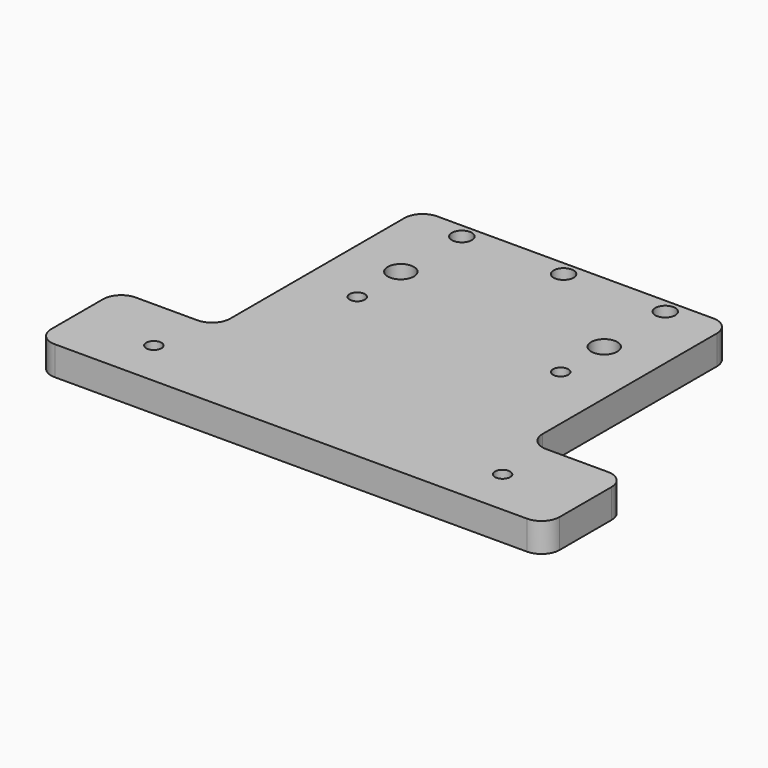
from build123d import *

# Parameters (mm, degrees)
PAD_DEPTH     = 8
SKETCH033_R   = 2.1
HOLE007_DEPTH = 25
SKETCH035_R   = 3.6
HOLE009_DEPTH = 25
SKETCH036_R   = 2.1
HOLE010_DEPTH = 25
SKETCH051_R   = 2.75
HOLE018_DEPTH = 25


with BuildPart() as part:
    # Sketch → Pad (new body)
    with BuildSketch(Plane.XY):
        with BuildLine():
            Line((-38, -31.56), (38, -31.56))
            ThreePointArc((43, -36.56), (41.535534, -33.024466), (38, -31.56))
            Line((43, -36.56), (43, -96.544143))
            ThreePointArc((43, -96.544143), (44.464466, -100.079677), (48, -101.544143))
            Line((48, -101.544143), (65, -101.544143))
            ThreePointArc((70, -106.544143), (68.535534, -103.008609), (65, -101.544143))
            Line((70, -106.544143), (70, -124.41))
            ThreePointArc((65, -129.41), (68.535534, -127.945534), (70, -124.41))
            Line((65, -129.41), (-65, -129.41))
            ThreePointArc((-70, -124.41), (-68.535534, -127.945534), (-65, -129.41))
            Line((-70, -124.41), (-70, -106.544143))
            ThreePointArc((-65, -101.544143), (-68.535534, -103.008609), (-70, -106.544143))
            Line((-65, -101.544143), (-48, -101.544143))
            ThreePointArc((-48, -101.544143), (-44.464466, -100.079677), (-43, -96.544143))
            Line((-43, -96.544143), (-43, -36.56))
            ThreePointArc((-38, -31.56), (-41.535534, -33.024466), (-43, -36.56))
        make_face()
    extrude(amount=PAD_DEPTH)

    # Sketch033 (on Face17 of Pad) → Hole007 (cut)
    with BuildSketch(Plane(origin=(0, 0, 0), x_dir=(1, 0, 0), z_dir=(0, 0, -1))):
        with Locations((-48, 116.56)):
            Circle(SKETCH033_R)
        with Locations((48, 116.56)):
            Circle(SKETCH033_R)
    extrude(amount=-HOLE007_DEPTH, mode=Mode.SUBTRACT)

    # Sketch035 (on Face17 of Pad) → Hole009 (cut)
    with BuildSketch(Plane(origin=(0, 0, 0), x_dir=(1, 0, 0), z_dir=(0, 0, -1))):
        with Locations((-28, 56.56)):
            Circle(SKETCH035_R)
        with Locations((28, 56.56)):
            Circle(SKETCH035_R)
    extrude(amount=-HOLE009_DEPTH, mode=Mode.SUBTRACT)

    # Sketch036 (on Hole) → Hole010 (cut)
    with BuildSketch(Plane.XY):
        with Locations((-28, -71.57)):
            Circle(SKETCH036_R)
        with Locations((28, -71.57)):
            Circle(SKETCH036_R)
    extrude(amount=HOLE010_DEPTH, mode=Mode.SUBTRACT)

    # Sketch051 (on Hole) → Hole018 (cut)
    with BuildSketch(Plane.XY):
        with Locations((-28, -35.56)):
            Circle(SKETCH051_R)
        with Locations((0, -35.56)):
            Circle(SKETCH051_R)
        with Locations((28, -35.56)):
            Circle(SKETCH051_R)
    extrude(amount=HOLE018_DEPTH, mode=Mode.SUBTRACT)


solid = part.part
